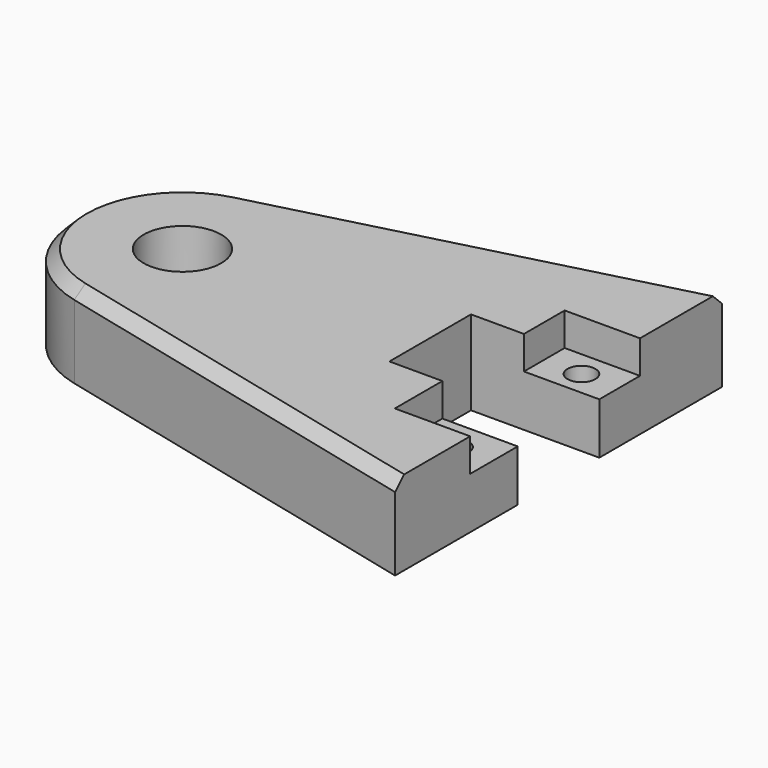
from build123d import *

# Parameters (mm, degrees)
SKETCH_R        = 10.561309
PAD_DEPTH       = 23
SKETCH001_W     = 33.65596
SKETCH001_H     = 57.798376
POCKET_DEPTH    = 9
CHAMFER_SIZE    = 3
SKETCH002_R     = 3.792362
POCKET001_DEPTH = 16


with BuildPart() as part:
    # Sketch → Pad (new body)
    with BuildSketch(Plane.XY):
        with BuildLine():
            Line((101.683037, 56.508842), (-7.323339, 28.107179))
            ThreePointArc((-7.323339, 28.107179), (-29.044704, -0.223526), (-6.889876, -28.216563))
            Line((-6.889876, -28.216563), (101.683037, -54.727728))
            Line((101.683037, -54.727728), (101.683037, -12.993235))
            Line((101.683037, -12.993235), (66.739337, -12.993235))
            Line((66.739337, -12.993235), (66.739337, 14.774349))
            Line((66.739337, 14.774349), (101.683037, 14.774349))
            Line((101.683037, 14.774349), (101.683037, 56.508842))
        make_face()
        Circle(SKETCH_R, mode=Mode.SUBTRACT)
    extrude(amount=PAD_DEPTH)

    # Sketch001 (on Face11 of Pad) → Pocket (cut)
    with BuildSketch(Plane.XY.offset(23)):
        with Locations((97.992905, -0.272637)):
            Rectangle(SKETCH001_W, SKETCH001_H)
    extrude(amount=-POCKET_DEPTH, mode=Mode.SUBTRACT)

    # Chamfer
    chamfer_edges = [part.edges().sort_by_distance(p)[0] for p in [
        (47.39658, -41.472145, 23),
        (-29.044704, -0.223526, 23),
        (47.179849, 42.30801, 23),
    ]]
    chamfer(chamfer_edges, length=CHAMFER_SIZE)

    # Sketch002 (on Face20 of Chamfer) → Pocket001 (cut)
    with BuildSketch(Plane.XY.offset(14)):
        with Locations((91.437004, -21.51132)):
            Circle(SKETCH002_R)
    pocket001 = extrude(amount=-POCKET001_DEPTH, mode=Mode.SUBTRACT)

    # Mirrored: Pocket001 across XZ
    add(pocket001.mirror(Plane.XZ), mode=Mode.SUBTRACT)


solid = part.part
